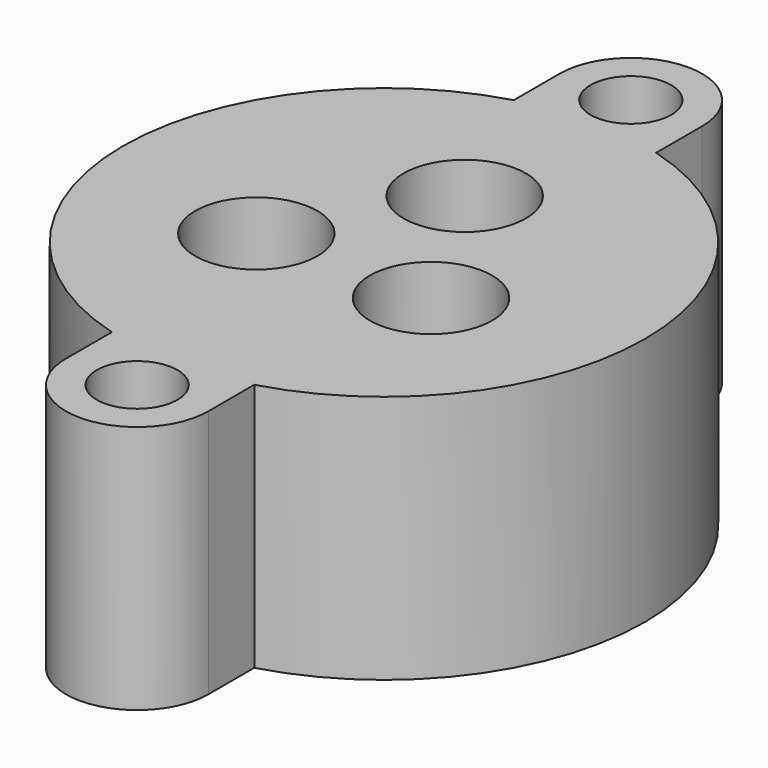
from build123d import *

# Parameters (mm, degrees)
CYLINDER150_R       = 1.7
CYLINDER150_DEPTH   = 11
CYLINDER154_R       = 7.14375
CYLINDER154_DEPTH   = 2.38125
CYLINDER155_R       = 9.525
CYLINDER155_DEPTH   = 2.38125
CYLINDER157_R       = 2.2
CYLINDER157_DEPTH   = 9
CYLINDER156_R       = 0.8
CYLINDER156_DEPTH   = 5
CYLINDER147_R       = 2.575
CYLINDER147_DEPTH   = 6
ARRAY_COUNT         = 3
CYLINDER151_R       = 1.7
CYLINDER151_DEPTH   = 11
BOX001_W            = 3
BOX001_H            = 6
BOX001_DEPTH        = 10.5
BOX_W               = 3
BOX_H               = 6
BOX_DEPTH           = 10.5
CYLINDER_R          = 3
CYLINDER_DEPTH      = 10.5
CYLINDER153_R       = 11
CYLINDER153_DEPTH   = 10.5
CYLINDER158_R       = 3
CYLINDER158_DEPTH   = 10.5
CUT_PLACEMENT_ANGLE = 90


with BuildPart() as obj1:
    # Cylinder150 → Cylinder150 (new body)
    with BuildSketch(Plane(origin=(-13, 0, 0), x_dir=(1, 0, 0), z_dir=(0, 0, 1))):
        Circle(CYLINDER150_R)
    extrude(amount=CYLINDER150_DEPTH)


with BuildPart() as cylinder008:
    # Cylinder154 → Cylinder154 (new body)
    with BuildSketch(Plane.XY):
        Circle(CYLINDER154_R)
    extrude(amount=CYLINDER154_DEPTH)


with BuildPart() as oring:
    # Cylinder155 → Cylinder155 (new body)
    with BuildSketch(Plane.XY):
        Circle(CYLINDER155_R)
    extrude(amount=CYLINDER155_DEPTH)

    # Cut019: cut Cylinder008
    add(cylinder008.part, mode=Mode.SUBTRACT)


with BuildPart() as oring_1:
    # Cut019 placement: moved
    add(oring.part.moved(Location((0, 0, -0.75))))


with BuildPart() as sealsubtraction:
    # Cylinder157 → Cylinder157 (new body)
    with BuildSketch(Plane.XY.offset(1.3)):
        Circle(CYLINDER157_R)
    extrude(amount=CYLINDER157_DEPTH)


with BuildPart() as bottomwireoutlet:
    # Cylinder156 → Cylinder156 (new body)
    with BuildSketch(Plane.XY.offset(-2)):
        Circle(CYLINDER156_R)
    extrude(amount=CYLINDER156_DEPTH)


with BuildPart() as sealarray:
    # Cylinder147 → Cylinder147 (new body)
    with BuildSketch(Plane.XY.offset(4.5)):
        Circle(CYLINDER147_R)
    extrude(amount=CYLINDER147_DEPTH)

    # Fusion: union SealSubtraction, BottomWireOutlet
    add(sealsubtraction.part)
    add(bottomwireoutlet.part)


with BuildPart() as sealarray_1:
    # Fusion placement: moved
    add(sealarray.part.moved(Location((4.25, 0, 0))))

    # Array: SealArray ×3 about axis
    array_axis = Axis((0, 0, 0), (0, 0, 1))


with BuildPart() as sealarray_2:
    add(sealarray_1.part)
    for i in range(1, ARRAY_COUNT):
        add(sealarray_1.part.rotate(array_axis, i * 360 / ARRAY_COUNT))


with BuildPart() as fusion002:
    # Cylinder151 → Cylinder151 (new body)
    with BuildSketch(Plane(origin=(13, 0, 0), x_dir=(1, 0, 0), z_dir=(0, 0, 1))):
        Circle(CYLINDER151_R)
    extrude(amount=CYLINDER151_DEPTH)

    # Fusion002: union obj1, Oring, SealArray
    add(obj1.part)
    add(oring_1.part)
    add(sealarray_2.part)


with BuildPart() as mountcube002:
    # Box001 → Box001 (new body)
    with BuildSketch(Plane(origin=(10, -3, 0), x_dir=(1, 0, 0), z_dir=(0, 0, 1))):
        with Locations((1.5, 3)):
            Rectangle(BOX001_W, BOX001_H)
    extrude(amount=BOX001_DEPTH)


with BuildPart() as mountcube1:
    # Box → Box (new body)
    with BuildSketch(Plane(origin=(-13, -3, 0), x_dir=(1, 0, 0), z_dir=(0, 0, 1))):
        with Locations((1.5, 3)):
            Rectangle(BOX_W, BOX_H)
    extrude(amount=BOX_DEPTH)


with BuildPart() as mountflange1:
    # Cylinder → Cylinder (new body)
    with BuildSketch(Plane(origin=(-13, 0, 0), x_dir=(1, 0, 0), z_dir=(0, 0, 1))):
        Circle(CYLINDER_R)
    extrude(amount=CYLINDER_DEPTH)


with BuildPart() as body:
    # Cylinder153 → Cylinder153 (new body)
    with BuildSketch(Plane.XY):
        Circle(CYLINDER153_R)
    extrude(amount=CYLINDER153_DEPTH)


with BuildPart() as cut:
    # Cylinder158 → Cylinder158 (new body)
    with BuildSketch(Plane(origin=(13, 0, 0), x_dir=(1, 0, 0), z_dir=(0, 0, 1))):
        Circle(CYLINDER158_R)
    extrude(amount=CYLINDER158_DEPTH)

    # Fusion001: union MountCube002, MountCube1, MountFlange1, Body
    add(mountcube002.part)
    add(mountcube1.part)
    add(mountflange1.part)
    add(body.part)

    # Cut: cut Fusion002
    add(fusion002.part, mode=Mode.SUBTRACT)


with BuildPart() as cut_1:
    # Cut placement: moved
    add(cut.part.moved(Location((0, 0, -10.5))).rotate(Axis((0, 0, -10.5), (0, 0, 1)), CUT_PLACEMENT_ANGLE))


solid = cut_1.part
